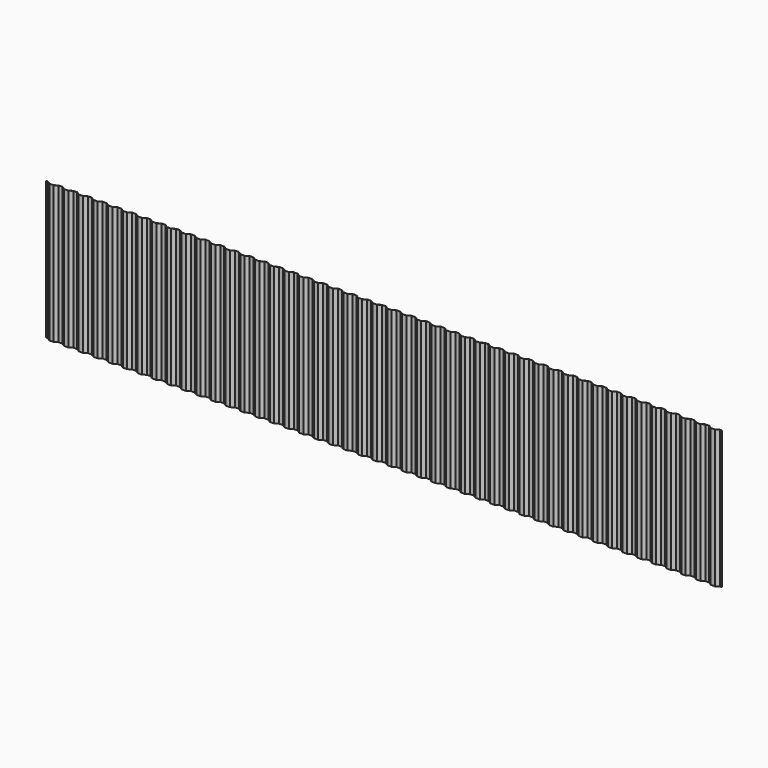
from build123d import *

# Parameters (mm, degrees)
F1_DEPTH = 2393


with BuildPart() as f1:
    # F0 (on Top) → F1 (new body)
    with BuildSketch(Plane.XY):
        Polygon((-1.346847, 17.211478), (-31.997272, 17.211478), (-31.997272, 15.211478), (-1.957822, 15.211478), (54.433667, -22.788522), (128.572077, -22.788522), (184.963566, 15.211478), (252.825156, 15.211478), (309.216644, -22.788522), (383.355054, -22.788522), (439.746543, 15.211478), (507.608133, 15.211478), (563.999622, -22.788522), (638.138032, -22.788522), (694.529521, 15.211478), (762.391111, 15.211478), (818.782599, -22.788522), (892.921009, -22.788522), (949.312498, 15.211478), (1017.174088, 15.211478), (1073.565577, -22.788522), (1147.703987, -22.788522), (1204.095475, 15.211478), (1271.957066, 15.211478), (1328.348554, -22.788522), (1402.486964, -22.788522), (1458.878453, 15.211478), (1526.740043, 15.211478), (1583.131532, -22.788522), (1657.269942, -22.788522), (1713.66143, 15.211478), (1781.52302, 15.211478), (1837.914509, -22.788522), (1912.052919, -22.788522), (1968.444408, 15.211478), (2036.305998, 15.211478), (2092.697487, -22.788522), (2166.835897, -22.788522), (2223.227385, 15.211478), (2291.088975, 15.211478), (2347.480464, -22.788522), (2421.618874, -22.788522), (2478.010363, 15.211478), (2545.871953, 15.211478), (2602.263441, -22.788522), (2676.401851, -22.788522), (2732.79334, 15.211478), (2800.65493, 15.211478), (2857.046419, -22.788522), (2931.184829, -22.788522), (2987.576318, 15.211478), (3055.437908, 15.211478), (3111.829396, -22.788522), (3185.967806, -22.788522), (3242.359295, 15.211478), (3310.220885, 15.211478), (3366.612374, -22.788522), (3440.750784, -22.788522), (3497.142272, 15.211478), (3565.003862, 15.211478), (3621.395351, -22.788522), (3695.533761, -22.788522), (3751.92525, 15.211478), (3819.78684, 15.211478), (3876.178329, -22.788522), (3950.316739, -22.788522), (4006.708227, 15.211478), (4074.569817, 15.211478), (4130.961306, -22.788522), (4205.099716, -22.788522), (4261.491205, 15.211478), (4329.352795, 15.211478), (4385.744283, -22.788522), (4459.882693, -22.788522), (4516.274182, 15.211478), (4584.135772, 15.211478), (4640.527261, -22.788522), (4714.665671, -22.788522), (4771.05716, 15.211478), (4838.91875, 15.211478), (4895.310238, -22.788522), (4969.448648, -22.788522), (5025.840137, 15.211478), (5093.701727, 15.211478), (5150.093216, -22.788522), (5224.231626, -22.788522), (5280.623115, 15.211478), (5348.484705, 15.211478), (5404.876193, -22.788522), (5479.014603, -22.788522), (5535.406092, 15.211478), (5603.267682, 15.211478), (5659.659171, -22.788522), (5733.797581, -22.788522), (5790.189069, 15.211478), (5858.050659, 15.211478), (5914.442148, -22.788522), (5988.580558, -22.788522), (6044.972047, 15.211478), (6112.833637, 15.211478), (6169.225126, -22.788522), (6243.363536, -22.788522), (6299.755024, 15.211478), (6367.616614, 15.211478), (6424.008103, -22.788522), (6498.146513, -22.788522), (6554.538002, 15.211478), (6622.399592, 15.211478), (6678.79108, -22.788522), (6752.92949, -22.788522), (6809.320979, 15.211478), (6877.182569, 15.211478), (6933.574058, -22.788522), (7007.712468, -22.788522), (7064.103957, 15.211478), (7131.965547, 15.211478), (7188.357035, -22.788522), (7262.495445, -22.788522), (7318.886934, 15.211478), (7386.748524, 15.211478), (7443.140013, -22.788522), (7517.278423, -22.788522), (7573.669911, 15.211478), (7641.531501, 15.211478), (7697.92299, -22.788522), (7772.0614, -22.788522), (7828.452889, 15.211478), (7896.314479, 15.211478), (7952.705968, -22.788522), (8026.844378, -22.788522), (8083.235866, 15.211478), (8151.097456, 15.211478), (8207.488945, -22.788522), (8281.627355, -22.788522), (8338.018844, 15.211478), (8405.880434, 15.211478), (8462.271923, -22.788522), (8536.410332, -22.788522), (8592.801821, 15.211478), (8660.663411, 15.211478), (8717.0549, -22.788522), (8791.19331, -22.788522), (8847.584799, 15.211478), (8915.446389, 15.211478), (8971.837877, -22.788522), (9045.976287, -22.788522), (9102.367776, 15.211478), (9170.229366, 15.211478), (9226.620855, -22.788522), (9300.759265, -22.788522), (9357.150754, 15.211478), (9425.012344, 15.211478), (9481.403832, -22.788522), (9555.542242, -22.788522), (9611.933731, 15.211478), (9679.795321, 15.211478), (9736.18681, -22.788522), (9810.32522, -22.788522), (9866.716708, 15.211478), (9934.578298, 15.211478), (9990.969787, -22.788522), (10065.108197, -22.788522), (10121.499686, 15.211478), (10189.361276, 15.211478), (10245.752765, -22.788522), (10319.891175, -22.788522), (10376.282663, 15.211478), (10444.144253, 15.211478), (10500.535742, -22.788522), (10574.674152, -22.788522), (10631.065641, 15.211478), (10698.927231, 15.211478), (10755.318719, -22.788522), (10829.457129, -22.788522), (10885.848618, 15.211478), (10953.710208, 15.211478), (11010.101697, -22.788522), (11084.240107, -22.788522), (11140.631596, 15.211478), (11208.493186, 15.211478), (11264.884674, -22.788522), (11339.023084, -22.788522), (11395.414573, 15.211478), (11463.276163, 15.211478), (11519.667652, -22.788522), (11593.806062, -22.788522), (11650.19755, 15.211478), (11682.002728, 15.211478), (11682.002728, 17.211478), (11649.586576, 17.211478), (11593.195087, -20.788522), (11520.278626, -20.788522), (11463.887137, 17.211478), (11394.803599, 17.211478), (11338.41211, -20.788522), (11265.495649, -20.788522), (11209.10416, 17.211478), (11140.020621, 17.211478), (11083.629133, -20.788522), (11010.712671, -20.788522), (10954.321182, 17.211478), (10885.237644, 17.211478), (10828.846155, -20.788522), (10755.929694, -20.788522), (10699.538205, 17.211478), (10630.454666, 17.211478), (10574.063178, -20.788522), (10501.146716, -20.788522), (10444.755228, 17.211478), (10375.671689, 17.211478), (10319.2802, -20.788522), (10246.363739, -20.788522), (10189.97225, 17.211478), (10120.888712, 17.211478), (10064.497223, -20.788522), (9991.580761, -20.788522), (9935.189273, 17.211478), (9866.105734, 17.211478), (9809.714245, -20.788522), (9736.797784, -20.788522), (9680.406295, 17.211478), (9611.322757, 17.211478), (9554.931268, -20.788522), (9482.014807, -20.788522), (9425.623318, 17.211478), (9356.539779, 17.211478), (9300.148291, -20.788522), (9227.231829, -20.788522), (9170.84034, 17.211478), (9101.756802, 17.211478), (9045.365313, -20.788522), (8972.448852, -20.788522), (8916.057363, 17.211478), (8846.973824, 17.211478), (8790.582336, -20.788522), (8717.665874, -20.788522), (8661.274386, 17.211478), (8592.190847, 17.211478), (8535.799358, -20.788522), (8462.882897, -20.788522), (8406.491408, 17.211478), (8337.407869, 17.211478), (8281.016381, -20.788522), (8208.099919, -20.788522), (8151.708431, 17.211478), (8082.624892, 17.211478), (8026.233403, -20.788522), (7953.316942, -20.788522), (7896.925453, 17.211478), (7827.841915, 17.211478), (7771.450426, -20.788522), (7698.533964, -20.788522), (7642.142476, 17.211478), (7573.058937, 17.211478), (7516.667448, -20.788522), (7443.750987, -20.788522), (7387.359498, 17.211478), (7318.27596, 17.211478), (7261.884471, -20.788522), (7188.96801, -20.788522), (7132.576521, 17.211478), (7063.492982, 17.211478), (7007.101494, -20.788522), (6934.185032, -20.788522), (6877.793543, 17.211478), (6808.710005, 17.211478), (6752.318516, -20.788522), (6679.402055, -20.788522), (6623.010566, 17.211478), (6553.927027, 17.211478), (6497.535539, -20.788522), (6424.619077, -20.788522), (6368.227589, 17.211478), (6299.14405, 17.211478), (6242.752561, -20.788522), (6169.8361, -20.788522), (6113.444611, 17.211478), (6044.361073, 17.211478), (5987.969584, -20.788522), (5915.053122, -20.788522), (5858.661634, 17.211478), (5789.578095, 17.211478), (5733.186606, -20.788522), (5660.270145, -20.788522), (5603.878656, 17.211478), (5534.795118, 17.211478), (5478.403629, -20.788522), (5405.487168, -20.788522), (5349.095679, 17.211478), (5280.01214, 17.211478), (5223.620652, -20.788522), (5150.70419, -20.788522), (5094.312701, 17.211478), (5025.229163, 17.211478), (4968.837674, -20.788522), (4895.921213, -20.788522), (4839.529724, 17.211478), (4770.446185, 17.211478), (4714.054697, -20.788522), (4641.138235, -20.788522), (4584.746746, 17.211478), (4515.663208, 17.211478), (4459.271719, -20.788522), (4386.355258, -20.788522), (4329.963769, 17.211478), (4260.88023, 17.211478), (4204.488742, -20.788522), (4131.57228, -20.788522), (4075.180792, 17.211478), (4006.097253, 17.211478), (3949.705764, -20.788522), (3876.789303, -20.788522), (3820.397814, 17.211478), (3751.314276, 17.211478), (3694.922787, -20.788522), (3622.006325, -20.788522), (3565.614837, 17.211478), (3496.531298, 17.211478), (3440.139809, -20.788522), (3367.223348, -20.788522), (3310.831859, 17.211478), (3241.748321, 17.211478), (3185.356832, -20.788522), (3112.440371, -20.788522), (3056.048882, 17.211478), (2986.965343, 17.211478), (2930.573855, -20.788522), (2857.657393, -20.788522), (2801.265904, 17.211478), (2732.182366, 17.211478), (2675.790877, -20.788522), (2602.874416, -20.788522), (2546.482927, 17.211478), (2477.399388, 17.211478), (2421.0079, -20.788522), (2348.091438, -20.788522), (2291.69995, 17.211478), (2222.616411, 17.211478), (2166.224922, -20.788522), (2093.308461, -20.788522), (2036.916972, 17.211478), (1967.833434, 17.211478), (1911.441945, -20.788522), (1838.525483, -20.788522), (1782.133995, 17.211478), (1713.050456, 17.211478), (1656.658967, -20.788522), (1583.742506, -20.788522), (1527.351017, 17.211478), (1458.267479, 17.211478), (1401.87599, -20.788522), (1328.959529, -20.788522), (1272.56804, 17.211478), (1203.484501, 17.211478), (1147.093012, -20.788522), (1074.176551, -20.788522), (1017.785062, 17.211478), (948.701524, 17.211478), (892.310035, -20.788522), (819.393574, -20.788522), (763.002085, 17.211478), (693.918546, 17.211478), (637.527058, -20.788522), (564.610596, -20.788522), (508.219107, 17.211478), (439.135569, 17.211478), (382.74408, -20.788522), (309.827619, -20.788522), (253.43613, 17.211478), (184.352591, 17.211478), (127.961103, -20.788522), (55.044641, -20.788522), align=None)
    extrude(amount=F1_DEPTH)


solid = f1.part
